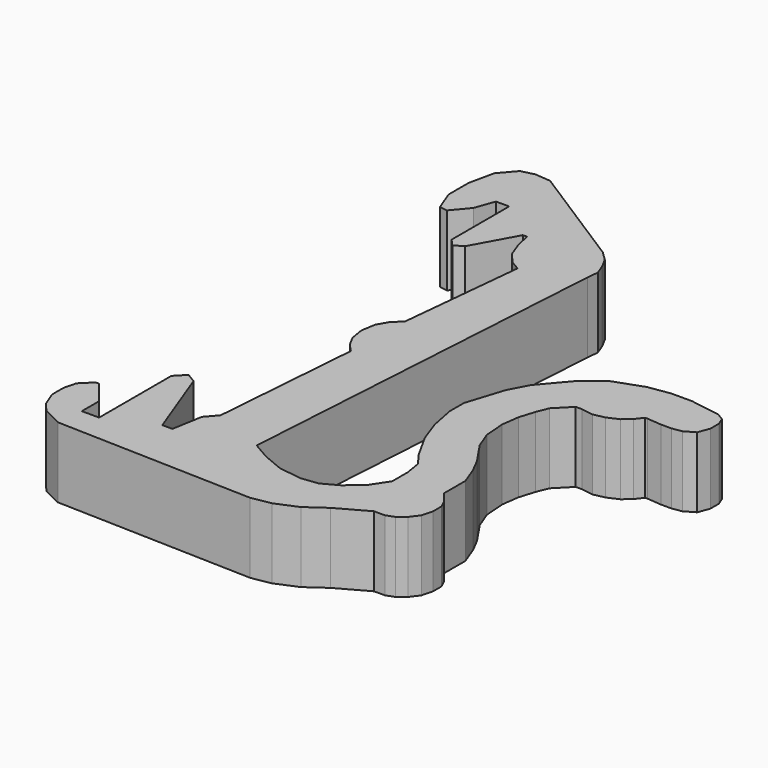
from build123d import *

# Parameters (mm, degrees)
F1_DEPTH = 5.8


with BuildPart() as f1:
    # F0 (on Top) → F1 (new body)
    with BuildSketch(Plane.XY):
        Polygon((19.870715, 20.171389), (11.003364, 25.828145), (9.710712, 25.935493), (8.638659, 25.674237), (7.548944, 24.40875), (7.098501, 22.336712), (7.098501, 20.264676), (7.745507, 18.576713), (8.39527, 18.462049), (9.515883, 19.793121), (10.092715, 21.398216), (11.178206, 21.398216), (11.178206, 15.477047), (11.710122, 14.888561), (12.432186, 15.31403), (14.361553, 18.82783), (14.710026, 18.82783), (14.968658, 17.630091), (15.437118, 16.368851), (16.193863, 15.467965), (16.986642, 14.999504), (15.95501, 4.724317), (15.226499, 4.017233), (14.733682, 3.160161), (14.540842, 1.960261), (14.733682, 0.846068), (15.183645, 0), (15.805023, -0.675234), (14.859016, -12.881954), (14.056012, -13.806167), (13.617913, -16.297314), (12.787792, -16.297314), (10.52028, -10.248602), (9.737968, -9.775993), (8.959359, -10.581703), (8.959359, -18.013308), (7.532651, -18.013308), (7.532651, -16.239962), (6.00086, -14.336004), (5.722645, -14.336004), (4.844186, -15.200062), (4.586618, -16.215181), (4.586618, -17.39696), (5.071451, -18.609043), (5.722946, -19.396897), (7.289982, -20.181168), (23.513971, -20.668361), (25.093786, -20.388072), (26.864707, -19.636385), (28.431782, -18.527966), (30.902525, -17.158909), (31.791739, -17.158909), (32.466684, -16.912501), (33.098772, -16.408972), (33.633251, -15.701212), (33.868946, -14.790573), (33.868946, -13.933501), (33.579685, -13.301411), (32.847531, -12.387843), (32.847531, -11.59999), (32.847531, -10.190943), (32.286942, -8.706142), (31.696055, -7.554664), (30.464781, -5.741373), (29.919345, -4.332328), (29.782984, -2.574808), (29.979948, -1.13546), (30.373875, 0.137226), (30.752651, 1.07659), (31.948227, 2.286357), (32.443713, 2.286357), (33.434689, 2.133206), (34.362599, 2.331401), (35.272494, 2.7368), (35.912123, 3.295349), (36.371578, 3.889933), (36.58779, 3.889933), (37.781443, 3.788194), (38.622316, 3.788194), (39.412223, 3.915599), (40.253092, 4.399735), (40.597085, 5.329788), (40.597085, 6.196138), (40.342275, 6.833161), (39.743476, 7.189893), (37.296191, 7.57748), (35.560623, 7.57748), (33.782199, 7.298932), (31.425729, 6.457172), (29.820433, 5.234089), (27.787192, 2.836954), (26.976394, 1.287431), (26.000202, -1.772101), (26.000202, -3.229123), (26.407311, -5.307521), (27.071541, -7.150225), (28.203402, -9.181112), (28.991256, -10.256835), (29.204722, -11.574975), (29.204722, -13.16472), (28.326225, -14.503894), (27.008476, -15.650228), (25.722869, -16.346598), (24.370953, -16.518012), (22.442544, -16.26089), (20.706974, -15.53238), (19.292805, -14.718162), (21.281268, 16.815733), (21.37769, 17.769225), (21.056287, 18.615583), (20.606324, 19.451229), align=None)
    extrude(amount=F1_DEPTH)


solid = f1.part
